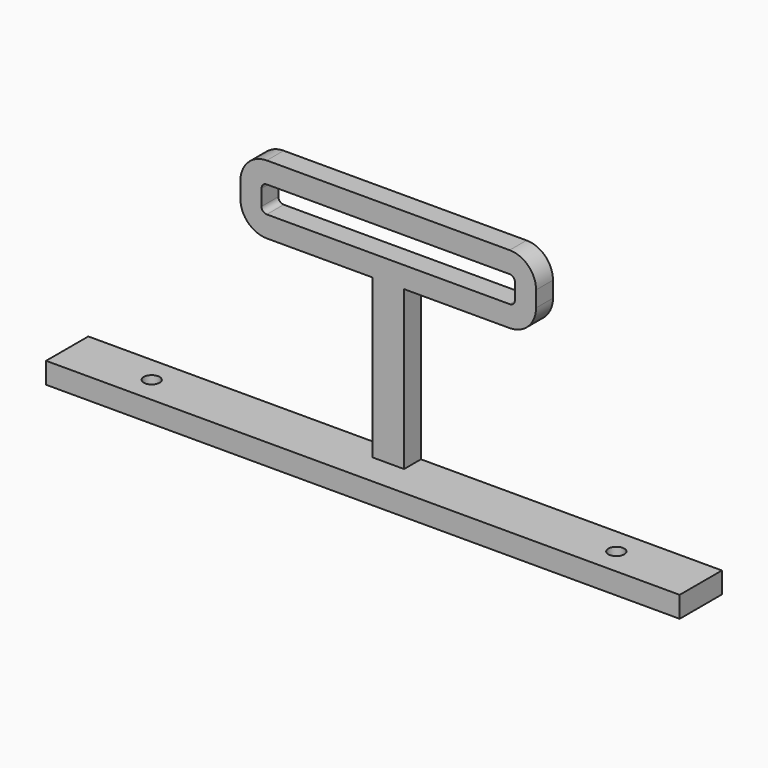
from build123d import *

# Parameters (mm, degrees)
F0_W     = 120
F0_H     = 10
F0_R     = 1.5
F1_DEPTH = 2
F2_W     = 6
F2_H     = 30
F3_DEPTH = 4


with BuildPart() as f1:
    # F0 (on Top) → F1 (new body, symmetric)
    with BuildSketch(Plane.XY):
        with Locations((60, 5)):
            Rectangle(F0_W, F0_H)
        with Locations((16, 5)):
            Circle(F0_R, mode=Mode.SUBTRACT)
        with Locations((104, 5)):
            Circle(F0_R, mode=Mode.SUBTRACT)
    extrude(amount=F1_DEPTH, both=True)

    # F2 (on face) → F3 (join)
    with BuildSketch(Plane(origin=(0, 10, 0), x_dir=(-1, 0, 0), z_dir=(0, 1, 0))):
        with BuildLine():
            Line((-63, 32), (-57, 32))
            Line((-57, 32), (-37, 32))
            ThreePointArc((-37, 32), (-33.4644660941, 33.4644660941), (-32, 37))
            Line((-32, 37), (-32, 40))
            ThreePointArc((-32, 40), (-33.4644660941, 43.5355339059), (-37, 45))
            Line((-37, 45), (-83, 45))
            ThreePointArc((-83, 45), (-86.5355339059, 43.5355339059), (-88, 40))
            Line((-88, 40), (-88, 37))
            ThreePointArc((-88, 37), (-86.5355339059, 33.4644660941), (-83, 32))
            Line((-83, 32), (-63, 32))
        make_face()
        with BuildLine():
            ThreePointArc((-84, 40), (-83.7071067812, 40.7071067812), (-83, 41))
            Line((-83, 41), (-37, 41))
            ThreePointArc((-37, 41), (-36.2928932188, 40.7071067812), (-36, 40))
            Line((-36, 40), (-36, 37))
            ThreePointArc((-36, 37), (-36.2928932188, 36.2928932188), (-37, 36))
            Line((-37, 36), (-83, 36))
            ThreePointArc((-83, 36), (-83.7071067812, 36.2928932188), (-84, 37))
            Line((-84, 37), (-84, 40))
        make_face(mode=Mode.SUBTRACT)
        with Locations((-60, 17)):
            Rectangle(F2_W, F2_H)
    extrude(amount=-F3_DEPTH)


solid = f1.part
